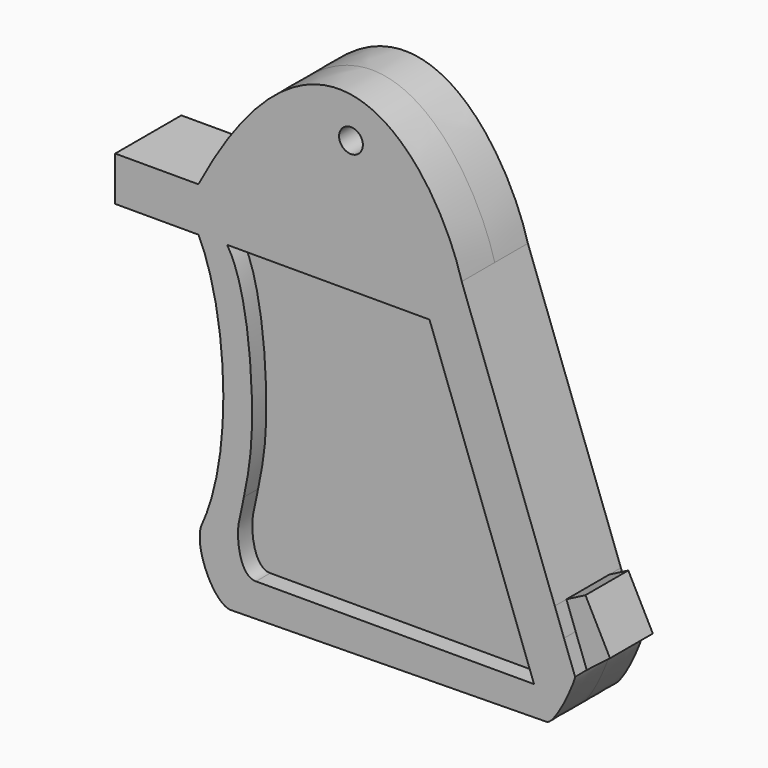
from build123d import *

# Parameters (mm, degrees)
F0_R     = 1
F1_DEPTH = 3.475
F2_DEPTH = 2.25
F4_DEPTH = 1.5
F6_DEPTH = 1.5


with BuildPart() as f1:
    # F0 (on Front) → F1 (new body, symmetric)
    with BuildSketch(Plane.XZ):
        with BuildLine():
            Line((0, 3.7288318854), (0, 0))
            Line((0, 0), (6.9967252202, 0))
            add(Edge.make_bspline(
                [(6.9967252202, 0), (9.2797642574, -4.5221908949), (10.1809287444, -15.1755161159), (7.2002517991, -21.5603647329)],
                knots=[0, 0, 0, 0, 21.5613253416, 21.5613253416, 21.5613253416, 21.5613253416], degree=3))
            add(Edge.make_bspline(
                [(7.2002517991, -21.5603647329), (6.6914390773, -23.4825400211), (8.3887010693, -26.9248684867), (9.7404803961, -26.8961938314)],
                knots=[0, 0, 0, 0, 5.9096390324, 5.9096390324, 5.9096390324, 5.9096390324], degree=3))
            Line((9.7404803961, -26.8961938314), (36.2628367926, -26.5350107441))
            add(Edge.make_bspline(
                [(38.6619754136, -22.4225856364), (38.6969335377, -22.7146428078), (37.0609843214, -26.4885407062), (36.2628367926, -26.5350107441)],
                knots=[0, 0, 0, 0, 4.7610824808, 4.7610824808, 4.7610824808, 4.7610824808], degree=3))
            Line((38.6619754136, -22.4225856364), (37.7328934056, -19.8724068204))
            Line((37.7328934056, -19.8724068204), (36.9564835581, -17.741288223))
            Line((36.9564835581, -17.741288223), (29.1344821453, 3.7288318854))
            add(Edge.make_bspline(
                [(6.9949179888, 3.7288318854), (17.3287056386, 23.4605930746), (26.8724299967, 11.955557391), (29.1344821453, 3.7288318854)],
                knots=[0, 0, 0, 0, 22.1395641565, 22.1395641565, 22.1395641565, 22.1395641565], degree=3))
            Line((6.9949179888, 3.7288318854), (0, 3.7288318854))
        make_face()
        with BuildLine():
            add(Edge.make_bspline(
                [(9.4467252202, 0), (10.9906066209, -2.3621518631), (11.8817396227, -11.8382899378), (11.3527391163, -15.8558540684), (10.8528801655, -18.2185956272)],
                knots=[0, 0, 0, 0, 0.5622964622, 1, 1, 1, 1], degree=3))
            Line((9.4467252202, 0), (26.4606260202, 0))
            Line((26.4606260202, 0), (35.2483888837, -24.1209780218))
            Line((35.2483888837, -24.1209780218), (32.2012024882, -24.1209780218))
            Line((32.2012024882, -24.1209780218), (11.8752977761, -24.1209780218))
            add(Edge.make_bspline(
                [(10.8528801655, -18.2185956272), (10.6736963888, -19.4107137837), (10.0184677383, -20.6313388233), (10.7373066785, -24.130475951), (11.8752977761, -24.1209780218)],
                knots=[0, 0, 0, 0, 0.4837506013, 1, 1, 1, 1], degree=3))
        make_face(mode=Mode.SUBTRACT)
        with Locations((19.8225565255, 11.1334240064)):
            Circle(F0_R, mode=Mode.SUBTRACT)
        with BuildLine():
            Line((26.4606260202, 0), (9.4467252202, 0))
            add(Edge.make_bspline(
                [(9.4467252202, 0), (10.9906066209, -2.3621518631), (11.8817396227, -11.8382899378), (11.3527391163, -15.8558540684), (10.8528801655, -18.2185956272)],
                knots=[0, 0, 0, 0, 0.5622964622, 1, 1, 1, 1], degree=3))
            add(Edge.make_bspline(
                [(10.8528801655, -18.2185956272), (10.6736963888, -19.4107137837), (10.0184677383, -20.6313388233), (10.7373066785, -24.130475951), (11.8752977761, -24.1209780218)],
                knots=[0, 0, 0, 0, 0.4837506013, 1, 1, 1, 1], degree=3))
            Line((11.8752977761, -24.1209780218), (32.2012024882, -24.1209780218))
            Line((32.2012024882, -24.1209780218), (35.2483888837, -24.1209780218))
            Line((35.2483888837, -24.1209780218), (26.4606260202, 0))
        make_face()
    extrude(amount=F1_DEPTH, both=True)

    # F0 (on Front) → F2 (join, symmetric)
    with BuildSketch(Plane.XZ):
        Polygon((38.5574395408, -16.9160417945), (36.9564835581, -17.741288223), (37.7328934056, -19.8724068204), (39.5883468265, -18.9159743354), align=None)
        Polygon((39.5883468265, -18.9159743354), (37.7328934056, -19.8724068204), (38.6619754136, -22.4225856364), (40.6192541122, -20.9159068763), align=None)
    extrude(amount=F2_DEPTH, both=True)

    # F3 (on face) → F4 (cut)
    with BuildSketch(Plane.XZ.offset(3.475)):
        with BuildLine():
            Line((26.4228218723, 0.0341487469), (9.4089210724, 0.0341487469))
            add(Edge.make_bspline(
                [(9.4089210724, 0.0341487469), (10.9528024731, -2.3280031162), (11.8439354748, -11.804141191), (11.3149349685, -15.8217053215), (10.8150760177, -18.1844468803)],
                knots=[0, 0, 0, 0, 0.5622964622, 1, 1, 1, 1], degree=3))
            add(Edge.make_bspline(
                [(10.8150760177, -18.1844468803), (10.635892241, -19.3765650368), (9.9806635904, -20.5971900764), (10.6995025306, -24.0963272041), (11.8374936283, -24.0868292749)],
                knots=[0, 0, 0, 0, 0.4837506013, 1, 1, 1, 1], degree=3))
            Line((11.8374936283, -24.0868292749), (32.1633983403, -24.0868292749))
            Line((32.1633983403, -24.0868292749), (35.2105847359, -24.0868292749))
            Line((35.2105847359, -24.0868292749), (26.4228218723, 0.0341487469))
        make_face()
    extrude(amount=-F4_DEPTH, mode=Mode.SUBTRACT)

    # F5 (on face) → F6 (cut)
    with BuildSketch(Plane(origin=(0, 3.475, 0), x_dir=(-1, 0, 0), z_dir=(0, 1, 0))):
        with BuildLine():
            Line((-26.3866665531, -0.0262773244), (-35.1744294167, -24.1472553462))
            Line((-35.1744294167, -24.1472553462), (-32.1272430211, -24.1472553462))
            Line((-32.1272430211, -24.1472553462), (-11.8013383091, -24.1472553462))
            add(Edge.make_bspline(
                [(-10.7789206985, -18.2448729516), (-10.5997369218, -19.4369911081), (-9.9445082712, -20.6576161477), (-10.6633472114, -24.1567532754), (-11.8013383091, -24.1472553462)],
                knots=[0, 0, 0, 0, 0.4837506013, 1, 1, 1, 1], degree=3))
            add(Edge.make_bspline(
                [(-9.3727657532, -0.0262773244), (-10.9166471538, -2.3884291875), (-11.8077801556, -11.8645672622), (-11.2787796492, -15.8821313928), (-10.7789206985, -18.2448729516)],
                knots=[0, 0, 0, 0, 0.5622964622, 1, 1, 1, 1], degree=3))
            Line((-9.3727657532, -0.0262773244), (-26.3866665531, -0.0262773244))
        make_face()
    extrude(amount=-F6_DEPTH, mode=Mode.SUBTRACT)


solid = f1.part
